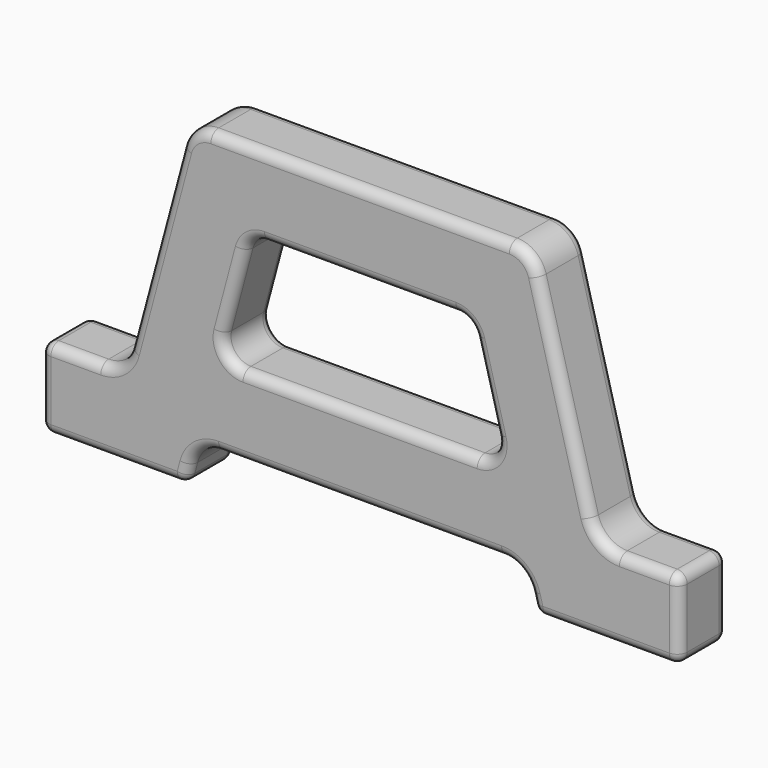
from build123d import *

# Parameters (mm, degrees)
F1_DEPTH = 9.525
F2_R     = 3.175


with BuildPart() as f1:
    # F0 (on Front) → F1 (new body, symmetric)
    with BuildSketch(Plane.XZ):
        with BuildLine():
            ThreePointArc((-47.5146924157, 88.9), (-53.3131450271, 86.9316905663), (-56.7151359112, 81.8402514046))
            Line((-56.7151359112, 81.8402514046), (-73.3495565046, 19.7597485954))
            ThreePointArc((-73.3495565046, 19.7597485954), (-76.7515473887, 14.6683094337), (-82.55, 12.7))
            Line((-82.55, 12.7), (-98.425, 12.7))
            ThreePointArc((-98.425, 12.7), (-100.6700640303, 11.7700640303), (-101.6, 9.525))
            Line((-101.6, 9.525), (-101.6, -9.525))
            ThreePointArc((-101.6, -9.525), (-100.6700640303, -11.7700640303), (-98.425, -12.7))
            Line((-98.425, -12.7), (-58.1873681317, -12.7))
            ThreePointArc((-58.1873681317, -12.7), (-56.2545505946, -12.0438968554), (-55.1205536332, -10.3467504682))
            Line((-55.1205536332, -10.3467504682), (-54.2398041359, -7.0597485954))
            ThreePointArc((-54.2398041359, -7.0597485954), (-50.8378132518, -1.9683094337), (-45.0393606405, 0))
            Line((-45.0393606405, 0), (45.0393606405, 0))
            ThreePointArc((45.0393606405, 0), (50.8378132518, -1.9683094337), (54.2398041359, -7.0597485954))
            Line((54.2398041359, -7.0597485954), (55.1205536332, -10.3467504682))
            ThreePointArc((55.1205536332, -10.3467504682), (56.2545505946, -12.0438968554), (58.1873681317, -12.7))
            Line((58.1873681317, -12.7), (98.425, -12.7))
            ThreePointArc((98.425, -12.7), (100.6700640303, -11.7700640303), (101.6, -9.525))
            Line((101.6, -9.525), (101.6, 9.525))
            ThreePointArc((101.6, 9.525), (100.6700640303, 11.7700640303), (98.425, 12.7))
            Line((98.425, 12.7), (82.55, 12.7))
            ThreePointArc((82.55, 12.7), (76.7515473887, 14.6683094337), (73.3495565046, 19.7597485954))
            Line((73.3495565046, 19.7597485954), (56.7151359112, 81.8402514046))
            ThreePointArc((56.7151359112, 81.8402514046), (53.3131450271, 86.9316905663), (47.5146924157, 88.9))
            Line((47.5146924157, 88.9), (-47.5146924157, 88.9))
        make_face()
        with BuildLine():
            Line((-43.4003885926, 33.3935009364), (-36.5944791049, 58.7935009364))
            ThreePointArc((-36.5944791049, 58.7935009364), (-34.3264851821, 62.1877937108), (-30.4608501079, 63.5))
            Line((-30.4608501079, 63.5), (30.4608501079, 63.5))
            ThreePointArc((30.4608501079, 63.5), (34.3264851821, 62.1877937108), (36.5944791049, 58.7935009364))
            Line((36.5944791049, 58.7935009364), (43.4003885926, 33.3935009364))
            ThreePointArc((43.4003885926, 33.3935009364), (42.3045533065, 27.8843649258), (37.2667595957, 25.4))
            Line((37.2667595957, 25.4), (-37.2667595957, 25.4))
            ThreePointArc((-37.2667595957, 25.4), (-42.3045533065, 27.8843649258), (-43.4003885926, 33.3935009364))
        make_face(mode=Mode.SUBTRACT)
    extrude(amount=F1_DEPTH, both=True)

    # F2
    f2_edges = [f1.edges().sort_by_distance(p)[0] for p in [
        (53.313145, -9.525, 86.931691),
        (0, -9.525, 88.9),
        (-53.313145, -9.525, 86.931691),
        (-65.032346, -9.525, 50.8),
        (-76.751547, -9.525, 14.668309),
        (-90.4875, -9.525, 12.7),
        (-100.670064, -9.525, 11.770064),
        (-101.6, -9.525, 0),
        (-100.670064, -9.525, -11.770064),
        (-78.306184, -9.525, -12.7),
        (-56.254551, -9.525, -12.043897),
        (-54.680179, -9.525, -8.70325),
        (-50.837813, -9.525, -1.968309),
        (0, -9.525, 0),
        (50.837813, -9.525, -1.968309),
        (54.680179, -9.525, -8.70325),
        (56.254551, -9.525, -12.043897),
        (78.306184, -9.525, -12.7),
        (100.670064, -9.525, -11.770064),
        (101.6, -9.525, 0),
        (100.670064, -9.525, 11.770064),
        (90.4875, -9.525, 12.7),
        (76.751547, -9.525, 14.668309),
        (65.032346, -9.525, 50.8),
        (-39.997434, -9.525, 46.093501),
        (-34.326485, -9.525, 62.187794),
        (0, -9.525, 63.5),
        (34.326485, -9.525, 62.187794),
        (39.997434, -9.525, 46.093501),
        (42.304553, -9.525, 27.884365),
        (0, -9.525, 25.4),
        (-42.304553, -9.525, 27.884365),
        (53.313145, 9.525, 86.931691),
        (0, 9.525, 88.9),
        (-53.313145, 9.525, 86.931691),
        (-65.032346, 9.525, 50.8),
        (-76.751547, 9.525, 14.668309),
        (-90.4875, 9.525, 12.7),
        (-100.670064, 9.525, 11.770064),
        (-101.6, 9.525, 0),
        (-100.670064, 9.525, -11.770064),
        (-78.306184, 9.525, -12.7),
        (-56.254551, 9.525, -12.043897),
        (-54.680179, 9.525, -8.70325),
        (-50.837813, 9.525, -1.968309),
        (0, 9.525, 0),
        (50.837813, 9.525, -1.968309),
        (54.680179, 9.525, -8.70325),
        (56.254551, 9.525, -12.043897),
        (78.306184, 9.525, -12.7),
        (100.670064, 9.525, -11.770064),
        (101.6, 9.525, 0),
        (100.670064, 9.525, 11.770064),
        (90.4875, 9.525, 12.7),
        (76.751547, 9.525, 14.668309),
        (65.032346, 9.525, 50.8),
        (-39.997434, 9.525, 46.093501),
        (-34.326485, 9.525, 62.187794),
        (0, 9.525, 63.5),
        (34.326485, 9.525, 62.187794),
        (39.997434, 9.525, 46.093501),
        (42.304553, 9.525, 27.884365),
        (0, 9.525, 25.4),
        (-42.304553, 9.525, 27.884365),
    ]]
    fillet(f2_edges, radius=F2_R)


solid = f1.part
